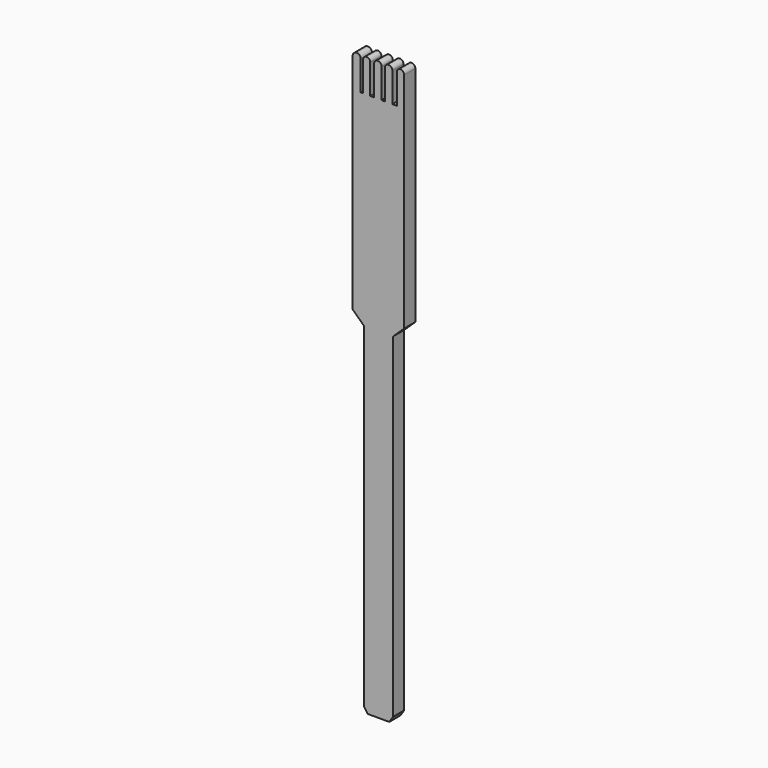
from build123d import *

# Parameters (mm, degrees)
F1_DEPTH = 6.35


with BuildPart() as f1:
    # F0 (on Front) → F1 (new body)
    with BuildSketch(Plane.XZ):
        with BuildLine():
            Line((-8.085411, 13.072304), (-8.085411, -139.327696))
            Line((-8.085411, -139.327696), (-6.365239, -141.902923))
            Line((-6.365239, -141.902923), (3.477706, -141.902923))
            Line((3.477706, -141.902923), (5.168511, -139.327696))
            Line((5.168511, -139.327696), (5.168511, 13.072304))
            Line((5.168511, 13.072304), (10.259341, 17.928839))
            Line((10.259341, 17.928839), (10.259341, 119.528839))
            ThreePointArc((10.259341, 119.528839), (8.576134, 121.212046), (6.892927, 119.528839))
            Line((6.892927, 119.528839), (6.892927, 106.053379))
            Line((6.892927, 106.053379), (4.900902, 106.053379))
            Line((4.900902, 106.053379), (4.900902, 119.528839))
            ThreePointArc((4.900902, 119.528839), (3.201823, 121.227918), (1.502743, 119.528839))
            Line((1.502743, 119.528839), (1.502743, 106.053379))
            Line((1.502743, 106.053379), (0, 106.053379))
            Line((0, 106.053379), (0, 119.528839))
            ThreePointArc((0, 119.528839), (-1.709364, 121.238202), (-3.418728, 119.528839))
            Line((-3.418728, 119.528839), (-3.418728, 106.053379))
            Line((-3.418728, 106.053379), (-5.176397, 106.053379))
            Line((-5.176397, 106.053379), (-5.176397, 119.528839))
            ThreePointArc((-5.176397, 119.528839), (-6.816888, 121.16933), (-8.457379, 119.528839))
            Line((-8.457379, 119.528839), (-8.457379, 106.053379))
            Line((-8.457379, 106.053379), (-9.51198, 106.053379))
            Line((-9.51198, 106.053379), (-9.51198, 119.528839))
            ThreePointArc((-9.51198, 119.528839), (-11.344111, 121.360969), (-13.176241, 119.528839))
            Line((-13.176241, 119.528839), (-13.176241, 17.928839))
            Line((-13.176241, 17.928839), (-8.085411, 13.072304))
        make_face()
    extrude(amount=F1_DEPTH)


solid = f1.part
